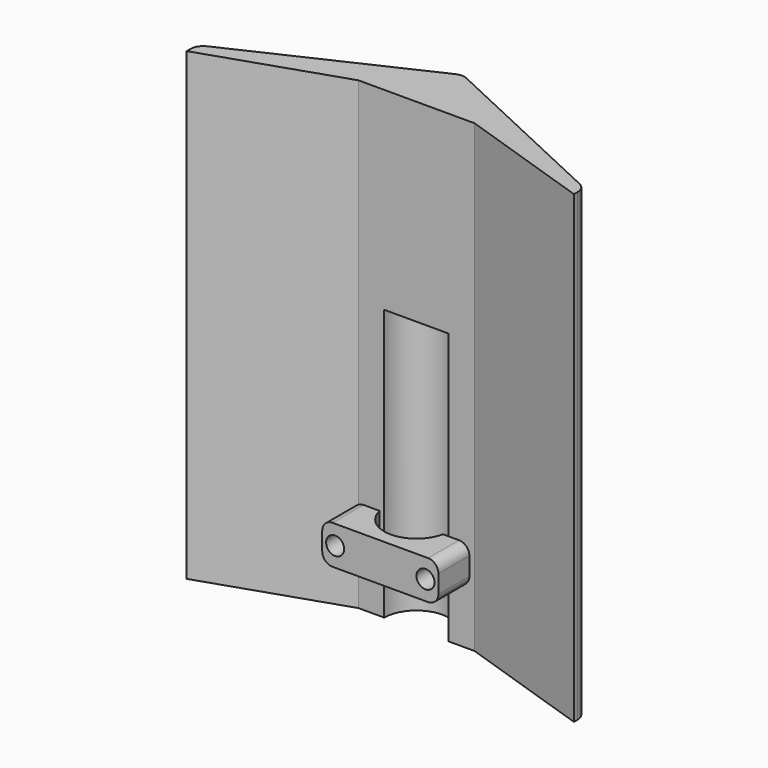
from build123d import *

# Parameters (mm, degrees)
PAD_DEPTH        = 150
PAD001_DEPTH     = 30
SKETCH002_R      = 1.5
POCKET001_DEPTH  = 30.001
SKETCH001_R      = 12.5
POCKET_DEPTH     = 75
FILLET_R         = 5
SKETCH003_W      = 45
SKETCH003_H      = 15
PAD002_DEPTH     = 7.5
SKETCH004_R      = 12.5
POCKET002_DEPTH  = 10
HOLE_D           = 4
HOLE_DEPTH       = 25
HOLE_CBORE_D     = 7
HOLE_CBORE_DEPTH = 10
FILLET001_R      = 4


with BuildPart() as roof:
    # Sketch → Pad (new body)
    with BuildSketch(Plane.XY):
        Polygon((-75, -25), (0, 10), (75, -25), (75, -30), (22.5, -12.5), (-22.5, -12.5), (-75, -30), align=None)
    extrude(amount=PAD_DEPTH)

    # Sketch → Pad001 (join)
    with BuildSketch(Plane.XY):
        Polygon((-75, -25), (0, 10), (75, -25), (75, -30), (22.5, -12.5), (-22.5, -12.5), (-75, -30), align=None)
    extrude(amount=-PAD001_DEPTH)

    # Sketch002 → Pocket001 (cut, through all)
    with BuildSketch(Plane.XZ):
        with Locations((17.5, 0)):
            Circle(SKETCH002_R)
        with Locations((-17.5, 0)):
            Circle(SKETCH002_R)
    extrude(amount=POCKET001_DEPTH, mode=Mode.SUBTRACT)

    # Sketch001 → Pocket (cut, symmetric)
    with BuildSketch(Plane.XY):
        with Locations((0, -12.5)):
            Circle(SKETCH001_R)
    extrude(amount=POCKET_DEPTH, both=True, mode=Mode.SUBTRACT)

    # Fillet
    fillet_edges = [roof.edges().sort_by_distance(p)[0] for p in [
        (75, -25, 75),
        (75, -25, -15),
        (-75, -25, -15),
        (-75, -25, 75),
        (0, 10, 75),
        (0, 10, -15),
    ]]
    fillet(fillet_edges, radius=FILLET_R)


with BuildPart() as fastening_bracket:
    # Sketch003 → Pad002 (new body, symmetric)
    with BuildSketch(Plane.XY):
        with Locations((0, -22.5)):
            Rectangle(SKETCH003_W, SKETCH003_H)
    extrude(amount=PAD002_DEPTH, both=True)

    # Sketch004 → Pocket002 (cut, symmetric)
    with BuildSketch(Plane.XY):
        with Locations((0, -12.5)):
            Circle(SKETCH004_R)
    extrude(amount=POCKET002_DEPTH, both=True, mode=Mode.SUBTRACT)

    # Hole
    with Locations(Plane.XZ.offset(30)):
        with Locations((-17.5, 0), (17.5, 0)):
            CounterBoreHole(HOLE_D / 2, HOLE_CBORE_D / 2, HOLE_CBORE_DEPTH, depth=HOLE_DEPTH)

    # Fillet001
    fillet001_edges = [fastening_bracket.edges().sort_by_distance(p)[0] for p in [
        (-22.5, -22.5, 7.5),
        (-22.5, -22.5, -7.5),
        (22.5, -22.5, 7.5),
        (22.5, -22.5, -7.5),
    ]]
    fillet(fillet001_edges, radius=FILLET001_R)


solid = Compound([roof.part, fastening_bracket.part])
